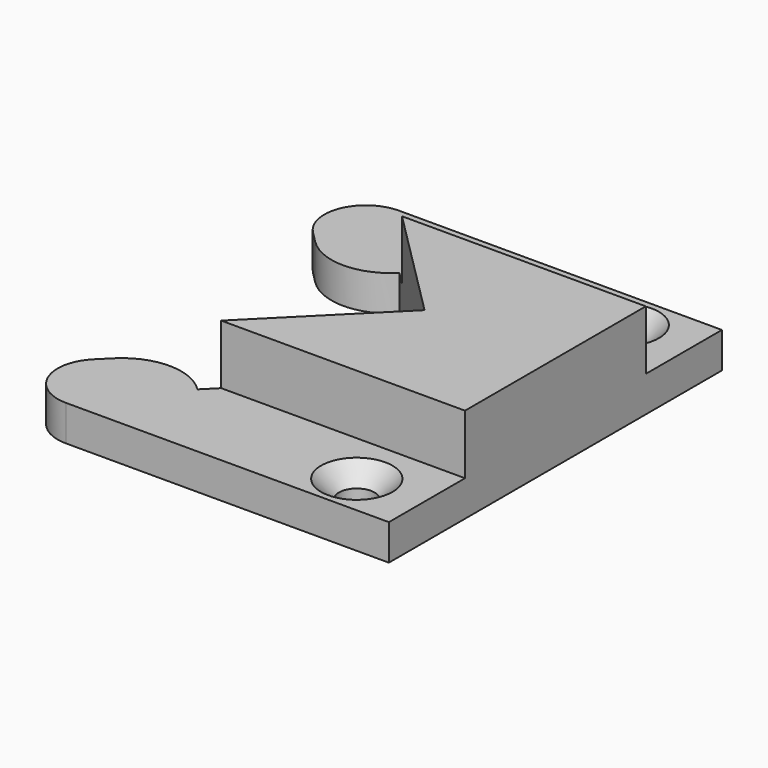
from build123d import *

# Parameters (mm, degrees)
SKETCH_R     = 1.5
PAD_DEPTH    = 3
FILLET_R     = 4.99
FILLET001_R  = 3.49
PAD001_DEPTH = 5
CHAMFER_SIZE = 1.5


with BuildPart() as part:
    # Sketch → Pad (new body)
    with BuildSketch(Plane.XY):
        Polygon((-10.606602, 10.606602), (0, 0), (-10.606602, -10.606602), (-14.142136, -7.071068), (-24.571068, -17.5), (11, -17.5), (11, 17.5), (-24.571068, 17.5), (-14.142136, 7.071068), align=None)
        with Locations((5.5, 14)):
            Circle(SKETCH_R, mode=Mode.SUBTRACT)
        with Locations((5.5, -14)):
            Circle(SKETCH_R, mode=Mode.SUBTRACT)
    extrude(amount=PAD_DEPTH)

    # Fillet
    fillet_edges = [part.edges().sort_by_distance(p)[0] for p in [
        (-14.142136, -7.071068, 1.5),
        (-14.142136, 7.071068, 1.5),
    ]]
    fillet(fillet_edges, radius=FILLET_R)

    # Fillet001
    fillet001_edges = [part.edges().sort_by_distance(p)[0] for p in [
        (-24.571068, -17.5, 1.5),
        (-24.571068, 17.5, 1.5),
    ]]
    fillet(fillet001_edges, radius=FILLET001_R)

    # Sketch001 (on Face17 of Fillet001) → Pad001 (join)
    with BuildSketch(Plane.XY.offset(3)):
        Polygon((-9.5, 9.5), (11, 9.5), (11, -9.5), (-9.5, -9.5), (0, 0), align=None)
    extrude(amount=PAD001_DEPTH)

    # Chamfer
    chamfer_edges = [part.edges().sort_by_distance(p)[0] for p in [
        (4, -14, 3),
        (4, 14, 3),
    ]]
    chamfer(chamfer_edges, length=CHAMFER_SIZE)


solid = part.part
